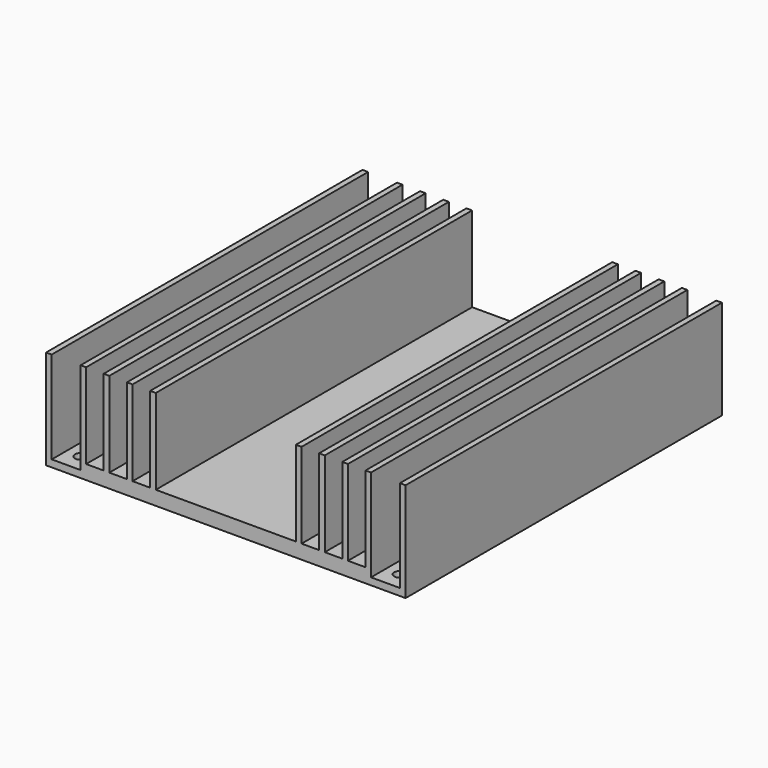
from build123d import *

# Parameters (mm, degrees)
F1_DEPTH = 139.7
F2_W     = 10.2
F2_H     = 32.6
F3_DEPTH = 150
F4_W     = 6.2
F4_H     = 32.647062
F4_H_2   = 32.911505
F4_H_3   = 34.58407
F4_H_4   = 35.141594
F4_H_5   = 35.977877
F4_H_6   = 40.159295
F5_DEPTH = 150
F6_DEPTH = 150
F7_R     = 2
F7_R_2   = 1.956251
F8_DEPTH = 25


with BuildPart() as f1:
    # F0 (on Front) → F1 (new body)
    with BuildSketch(Plane.XZ):
        Polygon((-24.75, 35.1), (-63.5, 35.1), (-63.5, 0), (63.5, 0), (63.5, 35.1), (24.75, 35.1), (24.75, 5), (-24.75, 5), align=None)
    extrude(amount=F1_DEPTH)

    # F2 (on face) → F3 (cut)
    with BuildSketch(Plane.XZ.offset(139.7)):
        with Locations((-56.4, 18.8)):
            Rectangle(F2_W, F2_H)
        with Locations((56.4, 18.8)):
            Rectangle(F2_W, F2_H)
    extrude(amount=-F3_DEPTH, mode=Mode.SUBTRACT)

    # F4 (on Front) → F5 (cut)
    with BuildSketch(Plane.XZ):
        with Locations((-29.85, 21.323531)):
            Rectangle(F4_W, F4_H)
        with Locations((-38.05, 21.455752)):
            Rectangle(F4_W, F4_H_2)
        with Locations((-46.25, 22.292035)):
            Rectangle(F4_W, F4_H_3)
        with Locations((29.85, 22.570797)):
            Rectangle(F4_W, F4_H_4)
        with Locations((38.05, 22.988938)):
            Rectangle(F4_W, F4_H_5)
        with Locations((46.25, 25.079648)):
            Rectangle(F4_W, F4_H_6)
    extrude(amount=-F5_DEPTH, mode=Mode.SUBTRACT)

    # F4 (on Front) → F6 (cut)
    with BuildSketch(Plane.XZ):
        with Locations((-29.85, 21.323531)):
            Rectangle(F4_W, F4_H)
        with Locations((-38.05, 21.455752)):
            Rectangle(F4_W, F4_H_2)
        with Locations((-46.25, 22.292035)):
            Rectangle(F4_W, F4_H_3)
        with Locations((29.85, 22.570797)):
            Rectangle(F4_W, F4_H_4)
        with Locations((38.05, 22.988938)):
            Rectangle(F4_W, F4_H_5)
        with Locations((46.25, 25.079648)):
            Rectangle(F4_W, F4_H_6)
    extrude(amount=F6_DEPTH, mode=Mode.SUBTRACT)

    # F7 (on face) → F8 (cut)
    with BuildSketch(Plane.XY.offset(2.5)):
        with Locations((-56.4, -6.35)):
            Circle(F7_R)
        with Locations((56.4, -6.35)):
            Circle(F7_R)
        with Locations((-56.4, -69.85)):
            Circle(F7_R_2)
        with Locations((56.4, -69.85)):
            Circle(F7_R)
        with Locations((-56.4, -133.35)):
            Circle(F7_R)
        with Locations((56.4, -133.35)):
            Circle(F7_R)
    extrude(amount=-F8_DEPTH, mode=Mode.SUBTRACT)


solid = f1.part
